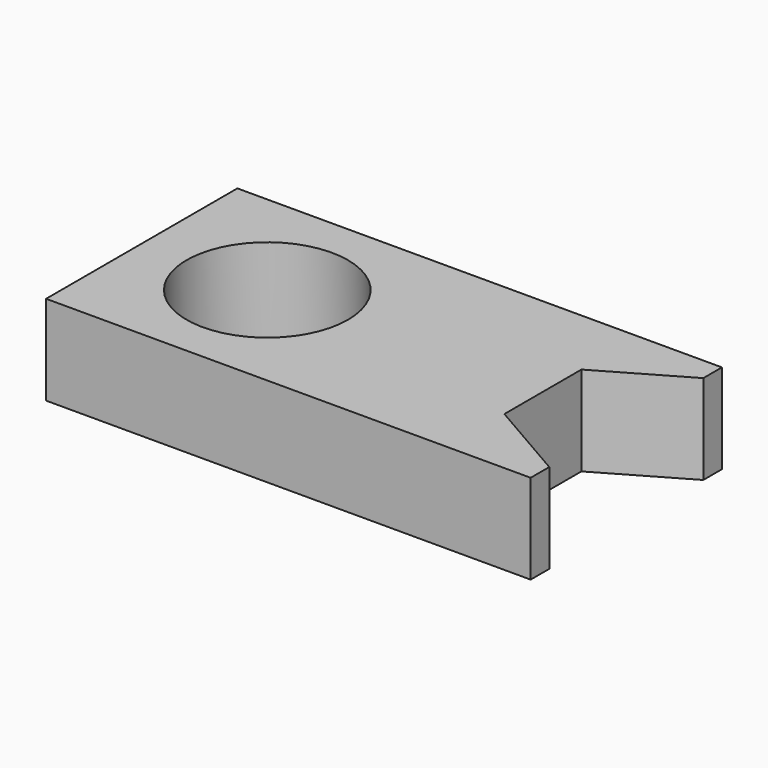
from build123d import *

# Parameters (mm, degrees)
F1_DEPTH = 25
F2_R     = 22.5
F3_DEPTH = 25


with BuildPart() as f1:
    # F0 (on Top) → F1 (new body)
    with BuildSketch(Plane.XY):
        Polygon((67.53853, 26.835585), (67.53853, 33.32565), (-67.53853, 33.32565), (-67.53853, -33.32565), (67.53853, -33.32565), (67.53853, -26.835585), (44.298232, -13.417792), (44.298232, 13.417792), align=None)
    extrude(amount=F1_DEPTH)

    # F2 (on face) → F3 (cut)
    with BuildSketch(Plane.XY.offset(25)):
        with Locations((-32.53853, 0)):
            Circle(F2_R)
    extrude(amount=-F3_DEPTH, mode=Mode.SUBTRACT)


solid = f1.part
